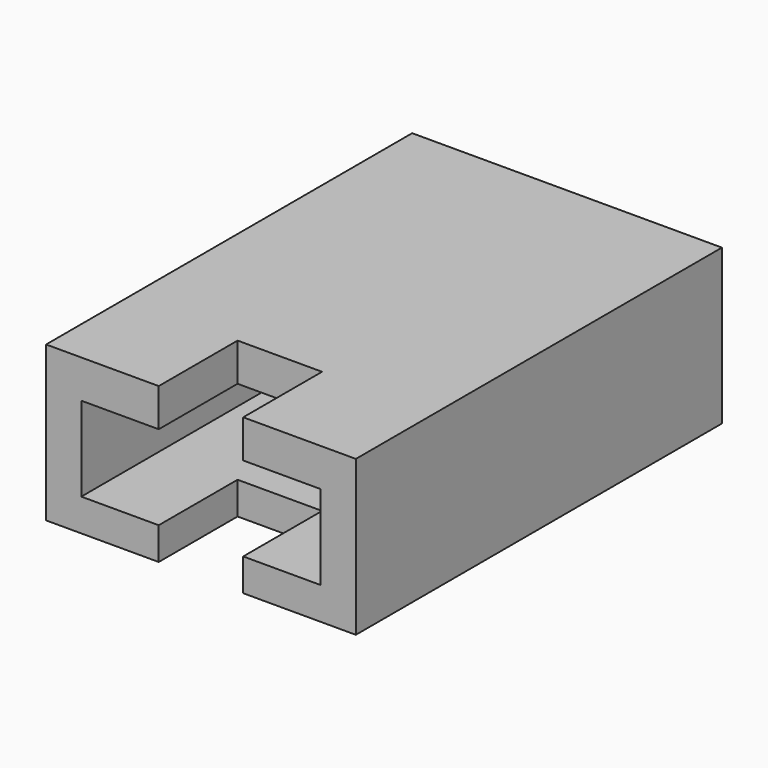
from build123d import *

# Parameters (mm, degrees)
BOX307_W     = 3.4
BOX307_H     = 6.5
BOX307_DEPTH = 1.2
BOX306_W     = 3.4
BOX306_H     = 6.5
BOX306_DEPTH = 1.2
BOX305_W     = 4.4
BOX305_H     = 6.5
BOX305_DEPTH = 2.2


with BuildPart() as cubo292:
    # Box307 → Box307 (new body)
    with BuildSketch(Plane(origin=(15.8, -32, 13), x_dir=(0, 0, -1), z_dir=(1, 0, 0))):
        with Locations((1.7, 3.25)):
            Rectangle(BOX307_W, BOX307_H)
    extrude(amount=BOX307_DEPTH)


with BuildPart() as cubo291:
    # Box306 → Box306 (new body)
    with BuildSketch(Plane(origin=(14.7, -27, 10.26), x_dir=(1, 0, 0), z_dir=(0, 0, 1))):
        with Locations((1.7, 3.25)):
            Rectangle(BOX306_W, BOX306_H)
    extrude(amount=BOX306_DEPTH)


with BuildPart() as obj1:
    # Box305 → Box305 (new body)
    with BuildSketch(Plane(origin=(14.2, -26.9, 9.8), x_dir=(1, 0, 0), z_dir=(0, 0, 1))):
        with Locations((2.2, 3.25)):
            Rectangle(BOX305_W, BOX305_H)
    extrude(amount=BOX305_DEPTH)

    # Cut348: cut Cubo291
    add(cubo291.part, mode=Mode.SUBTRACT)

    # Cut349: cut Cubo292
    add(cubo292.part, mode=Mode.SUBTRACT)


solid = obj1.part
